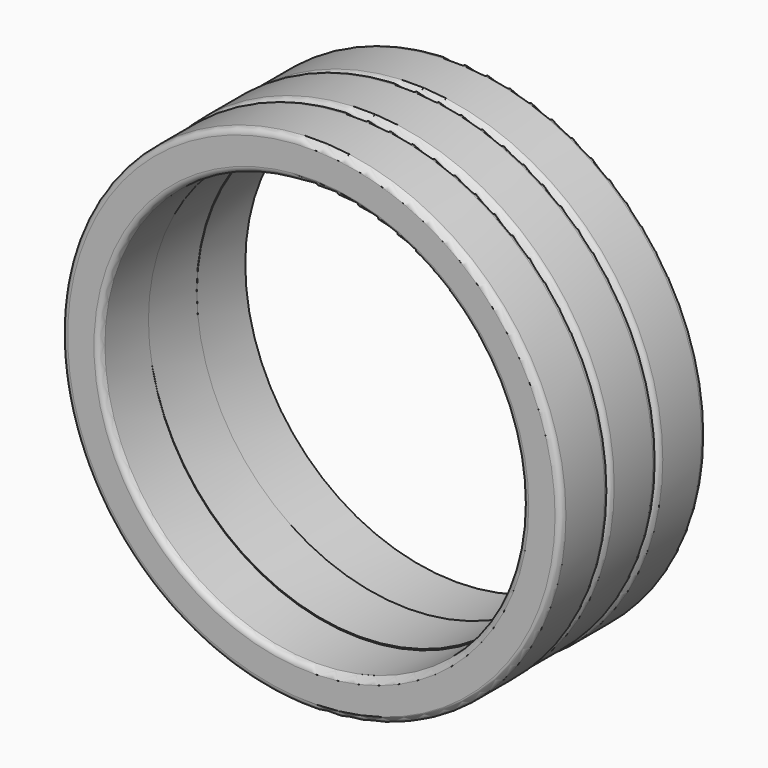
from build123d import *

# Parameters (mm, degrees)
F4_R     = 8.254362
F4_R_2   = 6.985
F6_DEPTH = 2
F5_R     = 8.255
F5_R_2   = 6.985
F7_DEPTH = 2
F3_R     = 8.255
F3_R_2   = 6.985
F8_DEPTH = 2
F9_R     = 0.2
F9_2_R   = 0.2
F10_R    = 0.2
F10_2_R  = 0.2
F11_R    = 0.2
F11_2_R  = 0.2


with BuildPart() as f6:
    # F4 (on offset) → F6 (new body)
    with BuildSketch(Plane.XZ.offset(2)):
        Circle(F4_R)
        Circle(F4_R_2, mode=Mode.SUBTRACT)
    extrude(amount=F6_DEPTH)

    # F10#2
    f10_2_edges = [f6.edges().sort_by_distance(p)[0] for p in [
        (-8.254362, -2, 0),
        (-6.985, -4, 0),
    ]]
    fillet(f10_2_edges, radius=F10_2_R)

    # F11#2
    f11_2_edges = [f6.edges().sort_by_distance(p)[0] for p in [
        (-8.254362, -4, 0),
    ]]
    fillet(f11_2_edges, radius=F11_2_R)


with BuildPart() as f7:
    # F5 (on Front) → F7 (new body)
    with BuildSketch(Plane.XZ):
        with Locations((-0.004753, 0.039375)):
            Circle(F5_R)
        with Locations((-0.004753, 0.039375)):
            Circle(F5_R_2, mode=Mode.SUBTRACT)
    extrude(amount=F7_DEPTH)

    # F9#2
    f9_2_edges = [f7.edges().sort_by_distance(p)[0] for p in [
        (-8.259753, 0, 0.039375),
    ]]
    fillet(f9_2_edges, radius=F9_2_R)

    # F11
    f11_edges = [f7.edges().sort_by_distance(p)[0] for p in [
        (-8.259753, -2, 0.039375),
    ]]
    fillet(f11_edges, radius=F11_R)


with BuildPart() as f8:
    # F3 (on offset) → F8 (new body)
    with BuildSketch(Plane.XZ.offset(-2)):
        Circle(F3_R)
        Circle(F3_R_2, mode=Mode.SUBTRACT)
    extrude(amount=F8_DEPTH)

    # F9
    f9_edges = [f8.edges().sort_by_distance(p)[0] for p in [
        (-8.255, 2, 0),
    ]]
    fillet(f9_edges, radius=F9_R)

    # F10
    f10_edges = [f8.edges().sort_by_distance(p)[0] for p in [
        (-8.255, 0, 0),
    ]]
    fillet(f10_edges, radius=F10_R)


solid = Compound([f6.part, f7.part, f8.part])
